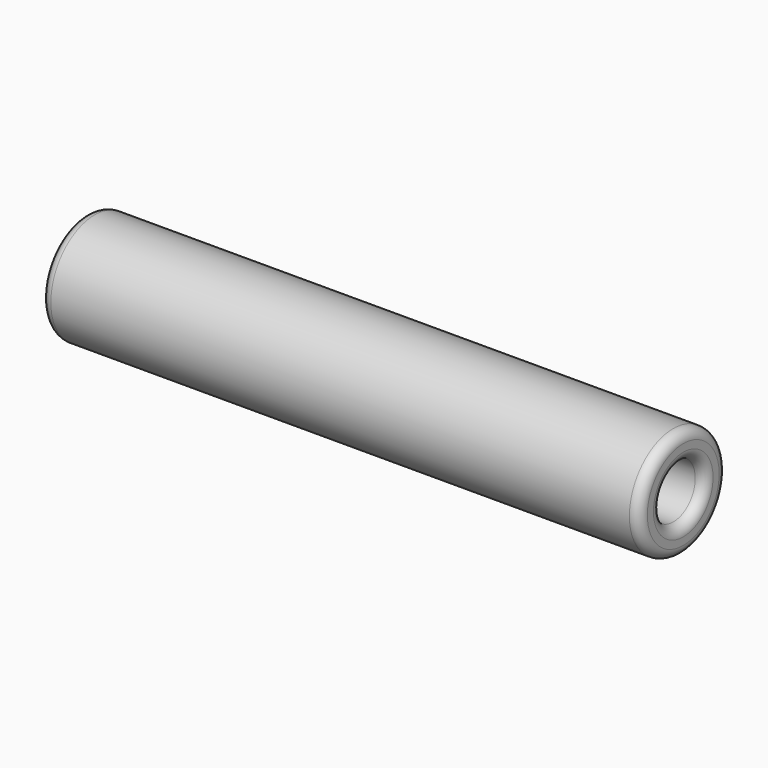
from build123d import *

# Parameters (mm, degrees)
F2_R = 1


with BuildPart() as f1:
    # F0 (on Front) → F1 (revolve)
    with BuildSketch(Plane.XZ):
        Polygon((58, -2.75), (0, -2), (0, -5.5), (58, -5.5), align=None)
        Polygon((0, 0), (-2, 0), (-2, -5.5), (0, -5.5), (0, -2), align=None)
    revolve(axis=Axis((-1, 0, 0), (1, 0, 0)))

    # F2
    f2_edges = [f1.edges().sort_by_distance(p)[0] for p in [
        (58, 0, 5.5),
        (28, 0, -5.5),
        (-2, 0, 5.5),
        (58, 0, 2.75),
    ]]
    fillet(f2_edges, radius=F2_R)


solid = f1.part
